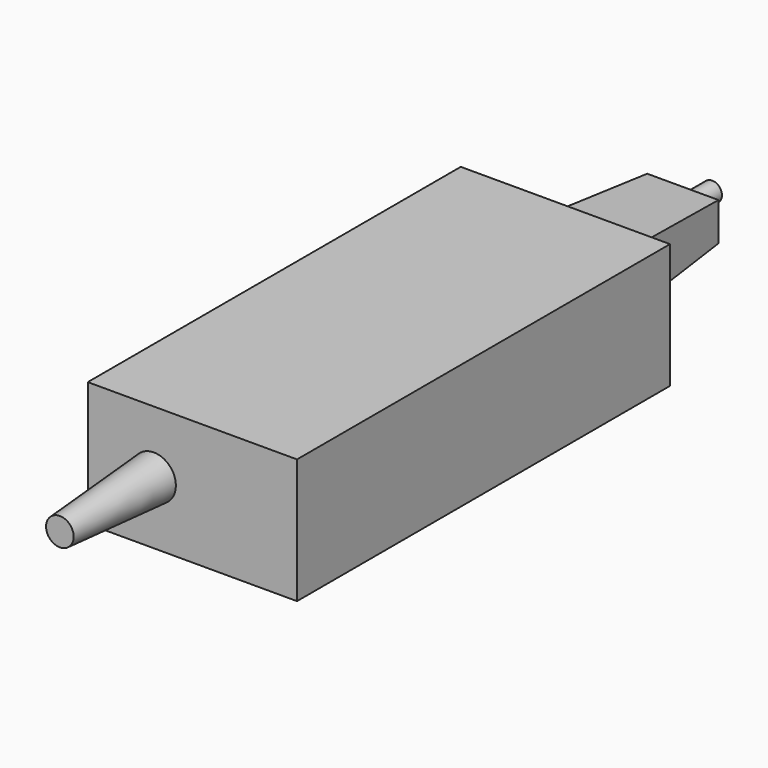
from build123d import *

# Parameters (mm, degrees)
SKETCH004_W  = 57
SKETCH004_H  = 127
PAD002_DEPTH = 34
SKETCH005_W  = 25
SKETCH005_H  = 16
PAD003_DEPTH = 40
PAD003_TAPER = 4
SKETCH006_R  = 2.65
PAD004_DEPTH = 10
SKETCH007_R  = 6
PAD005_DEPTH = 32
PAD005_TAPER = 4


with BuildPart() as part:
    # Sketch004 → Pad002 (new body)
    with BuildSketch(Plane.XY):
        Rectangle(SKETCH004_W, SKETCH004_H)
    extrude(amount=-PAD002_DEPTH)

    # Sketch005 (on Face1 of Pad002) → Pad003 (join)
    with BuildSketch(Plane(origin=(0, 63.5, 0), x_dir=(-1, 0, 0), z_dir=(0, 1, 0))):
        with Locations((0, -17)):
            Rectangle(SKETCH005_W, SKETCH005_H)
    extrude(amount=PAD003_DEPTH, taper=PAD003_TAPER)

    # Sketch006 (on Face11 of Pad003) → Pad004 (join)
    with BuildSketch(Plane(origin=(0, 103.5, 0), x_dir=(-1, 0, 0), z_dir=(0, 1, 0))):
        with Locations((0, -17)):
            Circle(SKETCH006_R)
    extrude(amount=PAD004_DEPTH)

    # Sketch007 (on Face10 of Pad004) → Pad005 (join)
    with BuildSketch(Plane.XZ.offset(63.5)):
        with Locations((-10.5, -17)):
            Circle(SKETCH007_R)
    extrude(amount=PAD005_DEPTH, taper=PAD005_TAPER)


with BuildPart() as part_1:
    # Body002 placement: moved
    add(part.part.moved(Location((63, 6, 0))))


with BuildPart() as part_2:
    # Body003 placement: moved
    add(part_1.part.moved(Location((-132, 0, 0))))


solid = part_2.part
